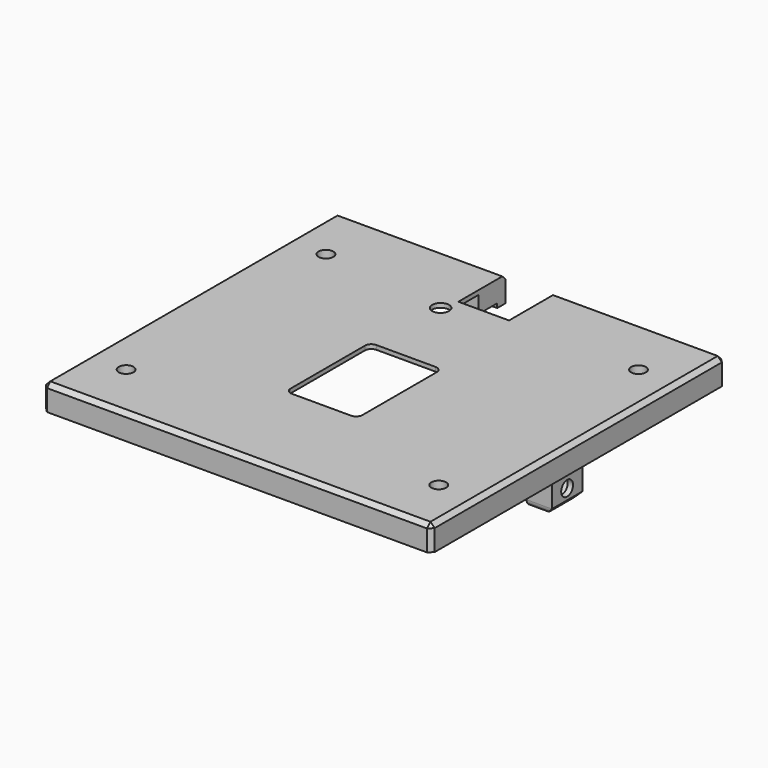
from build123d import *

# Parameters (mm, degrees)
BOX023_W                 = 4
BOX023_H                 = 9
BOX023_DEPTH             = 3
PRISM015_DEPTH           = 10
PRISM015_ROLL_ANGLE      = -90.000052
PRISM015_PITCH_ANGLE     = -59.999967
PRISM015_PLACEMENT_ANGLE = 90.000052
CYLINDER032_R            = 1.75
CYLINDER032_DEPTH        = 68
CYLINDER032_PITCH_ANGLE  = 90
BOX022_W                 = 6
BOX022_H                 = 9
BOX022_DEPTH             = 11
CHAMFER020_SIZE          = 1.5
FILLET015_R              = 1.5
BOX021_W                 = 12
BOX021_H                 = 16
BOX021_DEPTH             = 10
CYLINDER033_R            = 2
CYLINDER033_DEPTH        = 15
PAD035009_DEPTH          = 35
CYLINDER034_R            = 1.75
CYLINDER034_DEPTH        = 50
PRISM012_DEPTH           = 10
SKETCH031_W              = 88
SKETCH031_H              = 83
PAD035007_DEPTH          = 2
SKETCH032_W              = 58
SKETCH032_H              = 72
PAD035008_DEPTH          = 6
BOX020_W                 = 92
BOX020_H                 = 87
BOX020_DEPTH             = 6
CHAMFER019_SIZE          = 1


with BuildPart() as cubo022:
    # Box023 → Box023 (new body)
    with BuildSketch(Plane(origin=(-29.75, -4.5, 23), x_dir=(1, 0, 0), z_dir=(0, 0, 1))):
        with Locations((2, 4.5)):
            Rectangle(BOX023_W, BOX023_H)
    extrude(amount=BOX023_DEPTH)


with BuildPart() as prisma015:
    # Prism015 → Prism015 (new body)
    with BuildSketch(Plane.XY):
        Polygon((3.25, 0), (1.625, 2.814583), (-1.625, 2.814583), (-3.25, 0), (-1.625, -2.814583), (1.625, -2.814583), align=None)
    extrude(amount=PRISM015_DEPTH)


with BuildPart() as prisma015_1:
    # Prism015 roll: moved
    add(prisma015.part.rotate(Axis((0, 0, 0), (1, 0, 0)), PRISM015_ROLL_ANGLE))


with BuildPart() as prisma015_2:
    # Prism015 pitch: moved
    add(prisma015_1.part.rotate(Axis((0, 0, 0), (0, 1, 0)), PRISM015_PITCH_ANGLE))


with BuildPart() as prisma015_3:
    # Prism015 placement: moved
    add(prisma015_2.part.moved(Location((-17.5, 0, 18))).rotate(Axis((-17.5, 0, 18), (0, 0, 1)), PRISM015_PLACEMENT_ANGLE))


with BuildPart() as cilindro027:
    # Cylinder032 → Cylinder032 (new body)
    with BuildSketch(Plane.XY):
        Circle(CYLINDER032_R)
    extrude(amount=CYLINDER032_DEPTH)


with BuildPart() as cilindro027_1:
    # Cylinder032 pitch: moved
    add(cilindro027.part.rotate(Axis((0, 0, 0), (0, 1, 0)), CYLINDER032_PITCH_ANGLE))


with BuildPart() as cilindro027_2:
    # Cylinder032 placement: moved
    add(cilindro027_1.part.moved(Location((-34, 0, 18))))


with BuildPart() as fusion039:
    # Box022 → Box022 (new body)
    with BuildSketch(Plane(origin=(-28.75, -4.5, 14), x_dir=(1, 0, 0), z_dir=(0, 0, 1))):
        with Locations((3, 4.5)):
            Rectangle(BOX022_W, BOX022_H)
    extrude(amount=BOX022_DEPTH)

    # Cut050: cut Cilindro027
    add(cilindro027_2.part, mode=Mode.SUBTRACT)

    # Chamfer020
    chamfer020_edges = [fusion039.edges().sort_by_distance(p)[0] for p in [
        (-28.75, 0, 14),
    ]]
    chamfer(chamfer020_edges, length=CHAMFER020_SIZE)

    # Fillet015
    fillet015_edges = [fusion039.edges().sort_by_distance(p)[0] for p in [
        (-25, -4.5, 14),
        (-25, 4.5, 14),
    ]]
    fillet(fillet015_edges, radius=FILLET015_R)

    # Cut051: cut Prisma015
    add(prisma015_3.part, mode=Mode.SUBTRACT)

    # Fusion039: union Cubo022
    add(cubo022.part)


with BuildPart() as fusion039_1:
    # Fusion039 placement: moved
    add(fusion039.part.moved(Location((-15, -0.5, -1))))


with BuildPart() as fusion044:
    # Part__Mirroring048: instance of Fusion039
    add(fusion039_1.part.mirror(Plane(origin=(0, 0, 0), x_dir=(0, -1, 0), z_dir=(1, 0, 0))))

    # Fusion044: union Fusion039
    add(fusion039_1.part)


with BuildPart() as fusion044_1:
    # Fusion044 placement: moved
    add(fusion044.part.moved(Location((0, 0, 1.5))))


with BuildPart() as back_cover_hole:
    # Box021 → Box021 (new body)
    with BuildSketch(Plane(origin=(-6, 30, 22), x_dir=(1, 0, 0), z_dir=(0, 0, 1))):
        with Locations((6, 8)):
            Rectangle(BOX021_W, BOX021_H)
    extrude(amount=BOX021_DEPTH)


with BuildPart() as fusion043:
    # Cylinder033 → Cylinder033 (new body)
    with BuildSketch(Plane(origin=(-7, 26, 17), x_dir=(1, 0, 0), z_dir=(0, 0, 1))):
        Circle(CYLINDER033_R)
    extrude(amount=CYLINDER033_DEPTH)

    # Fusion043: union back_cover_hole
    add(back_cover_hole.part)


with BuildPart() as hole_cover:
    # Sketch033 → Pad035009 (new body)
    with BuildSketch(Plane.XY.offset(40)):
        with BuildLine():
            Line((-7, 7), (7, 7))
            ThreePointArc((8.5, 5.5), (8.06066, 6.56066), (7, 7))
            Line((8.5, 5.5), (8.5, -16.5))
            ThreePointArc((7, -18), (8.06066, -17.56066), (8.5, -16.5))
            Line((7, -18), (-7, -18))
            ThreePointArc((-8.5, -16.5), (-8.06066, -17.56066), (-7, -18))
            Line((-8.5, -16.5), (-8.5, 5.5))
            ThreePointArc((-7, 7), (-8.06066, 6.56066), (-8.5, 5.5))
        make_face()
    extrude(amount=-PAD035009_DEPTH)


with BuildPart() as cilindro:
    # Cylinder034 → Cylinder034 (new body)
    with BuildSketch(Plane.XY.offset(-15)):
        Circle(CYLINDER034_R)
    extrude(amount=CYLINDER034_DEPTH)


with BuildPart() as screw_nut_hole:
    # Prism012 → Prism012 (new body)
    with BuildSketch(Plane.XY):
        Polygon((3.1, 0), (1.55, 2.684679), (-1.55, 2.684679), (-3.1, 0), (-1.55, -2.684679), (1.55, -2.684679), align=None)
    extrude(amount=PRISM012_DEPTH)

    # Fusion041: union Cilindro
    add(cilindro.part)


with BuildPart() as screw_nut_hole_1:
    # Fusion041 placement: moved
    add(screw_nut_hole.part.moved(Location((37, 29.565, 9.5))))


with BuildPart() as part_mirroring049:
    # Part__Mirroring049: instance of screw_nut_hole
    add(screw_nut_hole_1.part.mirror(Plane(origin=(0, 0, 0), x_dir=(0, -1, 0), z_dir=(1, 0, 0))))


with BuildPart() as part_mirroring050:
    # Part__Mirroring050: instance of Part__Mirroring049
    add(part_mirroring049.part.mirror(Plane(origin=(0, 0, 0), x_dir=(1, 0, 0), z_dir=(0, 1, 0))))


with BuildPart() as screw_nuts_holes:
    # Part__Mirroring051: instance of screw_nut_hole
    add(screw_nut_hole_1.part.mirror(Plane(origin=(0, 0, 0), x_dir=(1, 0, 0), z_dir=(0, 1, 0))))

    # Fusion042: union screw_nut_hole, Part__Mirroring049, Part__Mirroring050
    add(screw_nut_hole_1.part)
    add(part_mirroring049.part)
    add(part_mirroring050.part)


with BuildPart() as screw_nuts_holes_1:
    # Fusion042 placement: moved
    add(screw_nuts_holes.part.moved(Location((0, 0, 7.5))))


with BuildPart() as pad035007:
    # Sketch031 → Pad035007 (new body)
    with BuildSketch(Plane(origin=(0, 0, 23), x_dir=(1, 0, 0), z_dir=(0, 0, -1))):
        Rectangle(SKETCH031_W, SKETCH031_H)
    extrude(amount=-PAD035007_DEPTH)


with BuildPart() as down_cover_base:
    # Sketch032 → Pad035008 (new body)
    with BuildSketch(Plane(origin=(0, 0, 23), x_dir=(1, 0, 0), z_dir=(0, 0, -1))):
        Rectangle(SKETCH032_W, SKETCH032_H)
    extrude(amount=-PAD035008_DEPTH)

    # Fusion037: union Pad035007
    add(pad035007.part)


with BuildPart() as down_cover_base_1:
    # Fusion037 placement: moved
    add(down_cover_base.part.moved(Location((0, 0, -1))))


with BuildPart() as cover:
    # Box020 → Box020 (new body)
    with BuildSketch(Plane(origin=(-46, -43, 23), x_dir=(1, 0, 0), z_dir=(0, 0, 1))):
        with Locations((46, 43.5)):
            Rectangle(BOX020_W, BOX020_H)
    extrude(amount=BOX020_DEPTH)

    # Chamfer019
    chamfer019_edges = [cover.edges().sort_by_distance(p)[0] for p in [
        (-46, -43, 26),
        (-46, 0.5, 29),
        (-46, 44, 26),
        (46, -43, 26),
        (46, 0.5, 29),
        (46, 44, 26),
        (0, -43, 29),
        (0, 44, 29),
    ]]
    chamfer(chamfer019_edges, length=CHAMFER019_SIZE)

    # Cut052: cut down_cover_base
    add(down_cover_base_1.part, mode=Mode.SUBTRACT)

    # Cut053: cut screw_nuts_holes
    add(screw_nuts_holes_1.part, mode=Mode.SUBTRACT)

    # Cut054: cut hole_cover
    add(hole_cover.part, mode=Mode.SUBTRACT)

    # Cut055: cut Fusion043
    add(fusion043.part, mode=Mode.SUBTRACT)


with BuildPart() as cover_1:
    # Cut055 placement: moved
    add(cover.part.moved(Location((0, -0.5, 0))))

    # Fusion045: union Fusion044
    add(fusion044_1.part)


with BuildPart() as cover_2:
    # Fusion045 placement: moved
    add(cover_1.part.moved(Location((0, 0, -1.5))))


solid = cover_2.part
